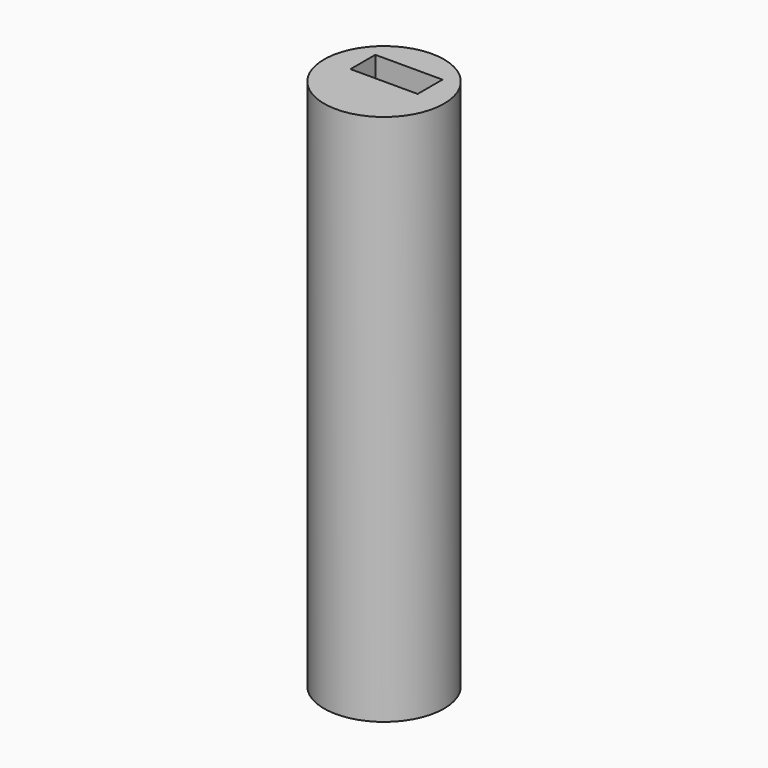
from build123d import *

# Parameters (mm, degrees)
F0_R     = 11.6
F1_DEPTH = 103
F2_W     = 13
F2_H     = 6
F3_DEPTH = 25


with BuildPart() as f1:
    # F0 (on Top) → F1 (new body)
    with BuildSketch(Plane.XY):
        Circle(F0_R)
    extrude(amount=F1_DEPTH)

    # F2 (on face) → F3 (cut)
    with BuildSketch(Plane.XY.offset(103)):
        with Locations((0, 3)):
            Rectangle(F2_W, F2_H)
    extrude(amount=-F3_DEPTH, mode=Mode.SUBTRACT)


solid = f1.part
